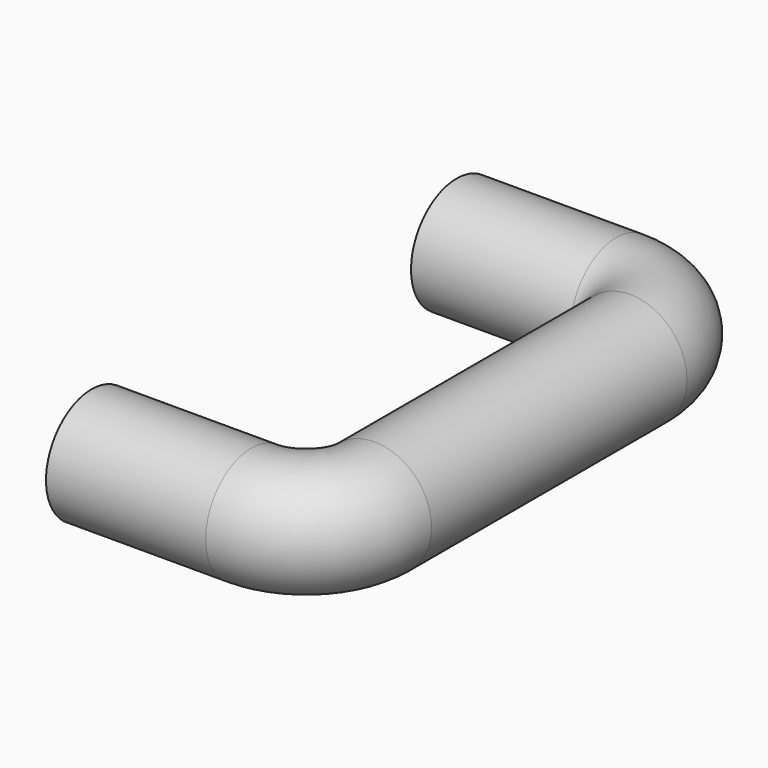
from build123d import *

# Parameters (mm, degrees)
F0_R = 0.25


with BuildPart() as f2:
    # F2: sweep along a path in F1
    with BuildLine(Plane.XY) as f2_path:
        Line((0, 0), (0.7, 0))
        ThreePointArc((0.7, 0), (0.9121320344, 0.0878679656), (1, 0.3))
        Line((1, 0.3), (1, 1.7))
        ThreePointArc((1, 1.7), (0.9121320344, 1.9121320344), (0.7, 2))
        Line((0.7, 2), (0, 2))
    # F0 (on Right) → F2 (sweep)
    with BuildSketch(Plane.YZ):
        Circle(F0_R)
    sweep(path=f2_path.line)


solid = f2.part
